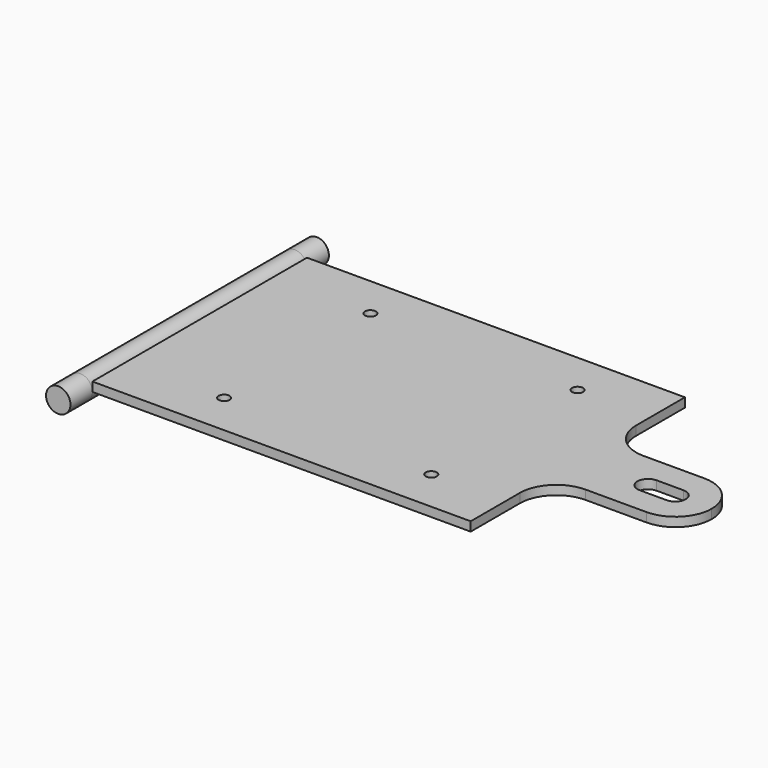
from build123d import *

# Parameters (mm, degrees)
F1_DEPTH = 9.525
F2_D     = 11.509375
F3_R     = 12.7
F4_DEPTH = 279.4
F5_DEPTH = 28.575
F6_DEPTH = 28.575


with BuildPart() as f1:
    # F0 (on Top) → F1 (new body)
    with BuildSketch(Plane.XY):
        with BuildLine():
            Line((-135.3345345497, 236.1316870544), (-236.9345345497, 236.1316870544))
            Line((-236.9345345497, 236.1316870544), (-236.9345345497, -43.2683129456))
            Line((-236.9345345497, -43.2683129456), (157.1505398512, -43.2683129456))
            Line((157.1505398512, -43.2683129456), (157.1505398512, 20.6167614553))
            ThreePointArc((157.1505398512, 20.6167614553), (168.309771488, 47.5575298185), (195.2505398512, 58.7167614553))
            Line((195.2505398512, 58.7167614553), (258.7505398512, 58.7167614553))
            ThreePointArc((258.7505398512, 58.7167614553), (285.4190194943, 69.7632074114), (296.4654654503, 96.4316870544))
            ThreePointArc((296.4654654503, 96.4316870544), (285.3062338135, 123.3724554176), (258.3654654503, 134.5316870544))
            Line((258.3654654503, 134.5316870544), (194.8654654503, 134.5316870544))
            ThreePointArc((194.8654654503, 134.5316870544), (167.9246970871, 145.6909186912), (156.7654654503, 172.6316870544))
            Line((156.7654654503, 172.6316870544), (156.7654654503, 236.1316870544))
            Line((156.7654654503, 236.1316870544), (80.5654654503, 236.1316870544))
            Line((80.5654654503, 236.1316870544), (-135.3345345497, 236.1316870544))
        make_face()
        with BuildLine():
            Line((230.1755398512, 107.5441870544), (258.3654654503, 107.5441870544))
            ThreePointArc((258.3654654503, 107.5441870544), (269.4779654503, 96.4316870544), (258.3654654503, 85.3191870544))
            Line((258.3654654503, 85.3191870544), (230.1755398512, 85.3191870544))
            ThreePointArc((230.1755398512, 85.3191870544), (219.0630398512, 96.4316870544), (230.1755398512, 107.5441870544))
        make_face(mode=Mode.SUBTRACT)
    extrude(amount=F1_DEPTH)

    # F2 (through all)
    with Locations(Plane(origin=(0, 0, 0), x_dir=(1, 0, 0), z_dir=(0, 0, -1))):
        with Locations((-135.3345345497, -191.6816870544), (80.5654654503, -191.6816870544), (80.5654654503, -1.1816870544), (-135.3345345497, -1.1816870544)):
            Hole(F2_D / 2)



with BuildPart() as f4:
    # F3 (on face) → F4 (new body, through all)
    with BuildSketch(Plane.XZ.offset(43.2683129456)):
        with Locations((-249.6345345497, 0)):
            Circle(F3_R)
    extrude(amount=-F4_DEPTH)


with BuildPart() as f1_1:
    add(f1.part)
    # F5 (add): a face of the model
    f5_faces = [f4.part.faces().sort_by_distance(p)[0] for p in [
        (-249.6345345497, -43.2683129456, 0),
    ]]

    add(f4.part)  # F5 merges F4
    extrude(f5_faces, amount=F5_DEPTH)

    # F6 (add): a face of the model
    f6_faces = [f1_1.faces().sort_by_distance(p)[0] for p in [
        (-249.6345345497, 236.1316870544, 0),
    ]]
    extrude(f6_faces, amount=F6_DEPTH)


solid = f1_1.part
